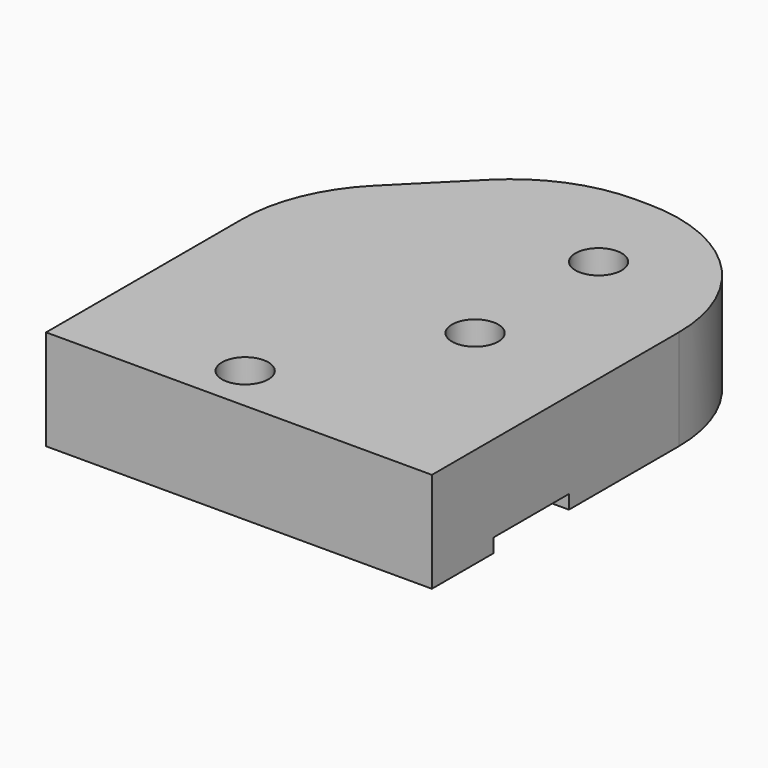
from build123d import *

# Parameters (mm, degrees)
F0_W     = 25
F0_H     = 30
F1_DEPTH = 6.5
F2_R     = 1.5
F3_DEPTH = 6.501
F4_W     = 25
F4_H     = 6.1
F5_DEPTH = 0.9
F6_SIZE  = 10
F7_R     = 10


with BuildPart() as f1:
    # F0 (on Top) → F1 (new body)
    with BuildSketch(Plane.XY):
        Rectangle(F0_W, F0_H)
    extrude(amount=F1_DEPTH)

    # F2 (on face) → F3 (cut, through all)
    with BuildSketch(Plane.XY.offset(6.5)):
        with Locations((-2, -12)):
            Circle(F2_R)
        with Locations((4.5, -1.5)):
            Circle(F2_R)
        with Locations((4.5, 8.5)):
            Circle(F2_R)
    extrude(amount=-F3_DEPTH, mode=Mode.SUBTRACT)

    # F4 (on face) → F5 (cut)
    with BuildSketch(Plane(origin=(0, 0, 0), x_dir=(1, 0, 0), z_dir=(0, 0, -1))):
        with Locations((0, 6.95)):
            Rectangle(F4_W, F4_H)
    extrude(amount=-F5_DEPTH, mode=Mode.SUBTRACT)

    # F6
    f6_edges = [f1.edges().sort_by_distance(p)[0] for p in [
        (-12.5, 15, 3.25),
    ]]
    chamfer(f6_edges, length=F6_SIZE)

    # F7
    f7_edges = [f1.edges().sort_by_distance(p)[0] for p in [
        (-12.5, 5, 3.25),
        (-2.5, 15, 3.25),
        (12.5, 15, 3.25),
    ]]
    fillet(f7_edges, radius=F7_R)


solid = f1.part
